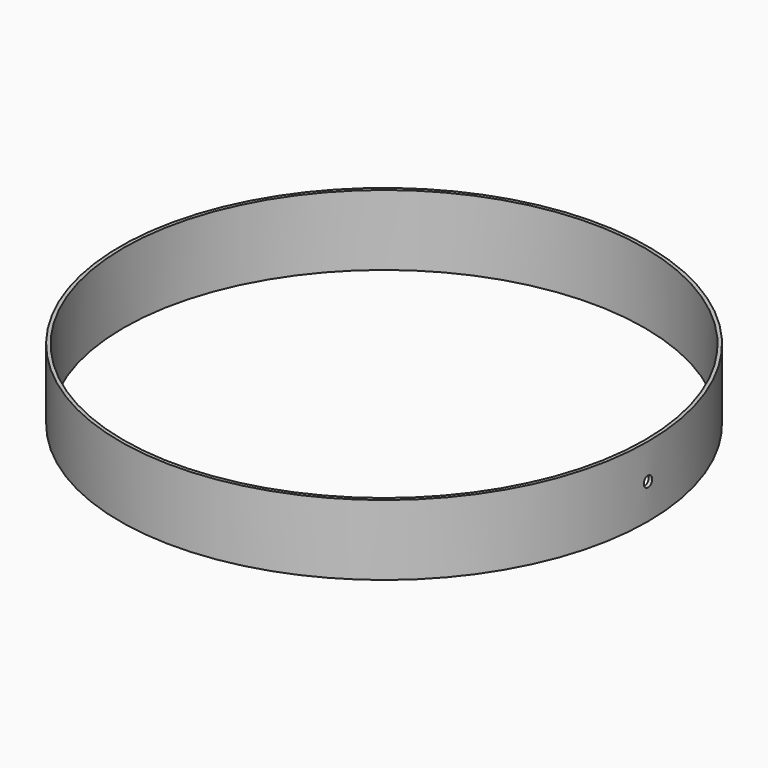
from build123d import *

# Parameters (mm, degrees)
F0_R     = 75
F0_R_2   = 74
F1_DEPTH = 20
F2_R     = 1.5
F3_DEPTH = 75.001


with BuildPart() as f1:
    # F0 (on Top) → F1 (new body)
    with BuildSketch(Plane.XY):
        Circle(F0_R)
        Circle(F0_R_2, mode=Mode.SUBTRACT)
    extrude(amount=F1_DEPTH)

    # F2 (on Right) → F3 (cut, through all)
    with BuildSketch(Plane.YZ):
        with Locations((0, 10)):
            Circle(F2_R)
    extrude(amount=F3_DEPTH, mode=Mode.SUBTRACT)


solid = f1.part
